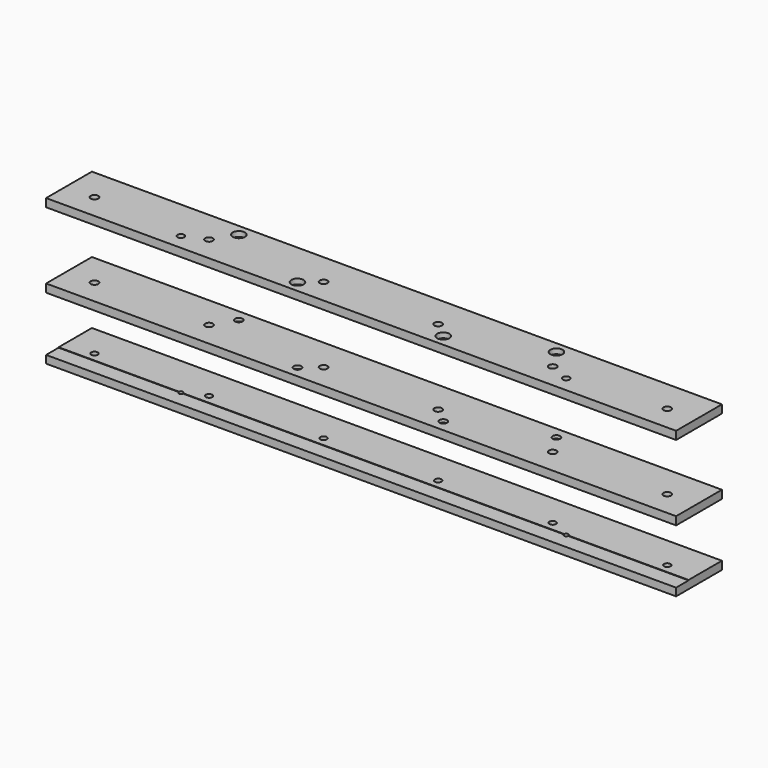
from build123d import *

# Parameters (mm, degrees)
F0_W      = 768.35
F0_H      = 69.85
F0_R      = 2.5
F0_R_2    = 4.0005
F1_DEPTH  = 9.906
F2_W      = 768.35
F2_H      = 19.05
F3_DEPTH  = 0.508
F5_W      = 768.35
F5_H      = 69.85
F5_R      = 4.6355
F6_DEPTH  = 9.906
F7_R      = 4.1275
F8_DEPTH  = 6.096
F10_R     = 7.4549
F11_DEPTH = 6.1976


with BuildPart() as f1:
    # F0 (on Top) → F1 (new body)
    with BuildSketch(Plane.XY):
        with Locations((0, -9.525)):
            Rectangle(F0_W, F0_H)
        with Locations((-234.95, -25.4)):
            Circle(F0_R, mode=Mode.SUBTRACT)
        with Locations((-349.25, -14.2875)):
            Circle(F0_R_2, mode=Mode.SUBTRACT)
        with Locations((-209.55, -14.2875)):
            Circle(F0_R_2, mode=Mode.SUBTRACT)
        with Locations((-69.85, -14.2875)):
            Circle(F0_R_2, mode=Mode.SUBTRACT)
        with Locations((69.85, -14.2875)):
            Circle(F0_R_2, mode=Mode.SUBTRACT)
        with Locations((234.95, -25.4)):
            Circle(F0_R, mode=Mode.SUBTRACT)
        with Locations((209.55, -14.2875)):
            Circle(F0_R_2, mode=Mode.SUBTRACT)
        with Locations((349.25, -14.2875)):
            Circle(F0_R_2, mode=Mode.SUBTRACT)
    extrude(amount=F1_DEPTH)

    # F2 (on face) → F3 (cut)
    with BuildSketch(Plane.XY.offset(9.906)):
        with Locations((0, -34.925)):
            Rectangle(F2_W, F2_H)
    extrude(amount=-F3_DEPTH, mode=Mode.SUBTRACT)


with BuildPart() as f6:
    # F5 (on offset) → F6 (new body)
    with BuildSketch(Plane.XY.offset(76.2)):
        with Locations((0, -9.525)):
            Rectangle(F5_W, F5_H)
        with Locations((-88.9, -30.296651)):
            Circle(F5_R, mode=Mode.SUBTRACT)
        with Locations((-349.25, -14.2875)):
            Circle(F5_R, mode=Mode.SUBTRACT)
        with Locations((-209.55, -14.2875)):
            Circle(F5_R, mode=Mode.SUBTRACT)
        with Locations((-69.85, -14.2875)):
            Circle(F5_R, mode=Mode.SUBTRACT)
        with Locations((88.9, -30.296651)):
            Circle(F5_R, mode=Mode.SUBTRACT)
        with Locations((69.85, -14.2875)):
            Circle(F5_R, mode=Mode.SUBTRACT)
        with Locations((209.55, -14.2875)):
            Circle(F5_R, mode=Mode.SUBTRACT)
        with Locations((349.25, -14.2875)):
            Circle(F5_R, mode=Mode.SUBTRACT)
        with Locations((-193.675, 11.2522)):
            Circle(F5_R, mode=Mode.SUBTRACT)
        with Locations((193.675, 11.2522)):
            Circle(F5_R, mode=Mode.SUBTRACT)
    extrude(amount=F6_DEPTH)

    # F7 (on face) → F8 (cut)
    with BuildSketch(Plane(origin=(0, 0, 76.2), x_dir=(1, 0, 0), z_dir=(0, 0, -1))):
        with Locations((-234.95, 25.4)):
            Circle(F7_R)
        with Locations((234.95, 25.4)):
            Circle(F7_R)
    extrude(amount=-F8_DEPTH, mode=Mode.SUBTRACT)

    # F10 (on face) → F11 (cut)
    with BuildSketch(Plane(origin=(0, 0, 76.2), x_dir=(1, 0, 0), z_dir=(0, 0, -1))):
        with Locations((-193.675, -11.2522)):
            Circle(F10_R)
        with Locations((-88.9, 30.296651)):
            Circle(F10_R)
        with Locations((88.9, 30.296651)):
            Circle(F10_R)
        with Locations((193.675, -11.2522)):
            Circle(F10_R)
    extrude(amount=-F11_DEPTH, mode=Mode.SUBTRACT)


with BuildPart() as f13_1:
    # F13: instance of F6
    add(f6.part.mirror(Plane.XY.offset(127)))


solid = Compound([f1.part, f6.part, f13_1.part])
